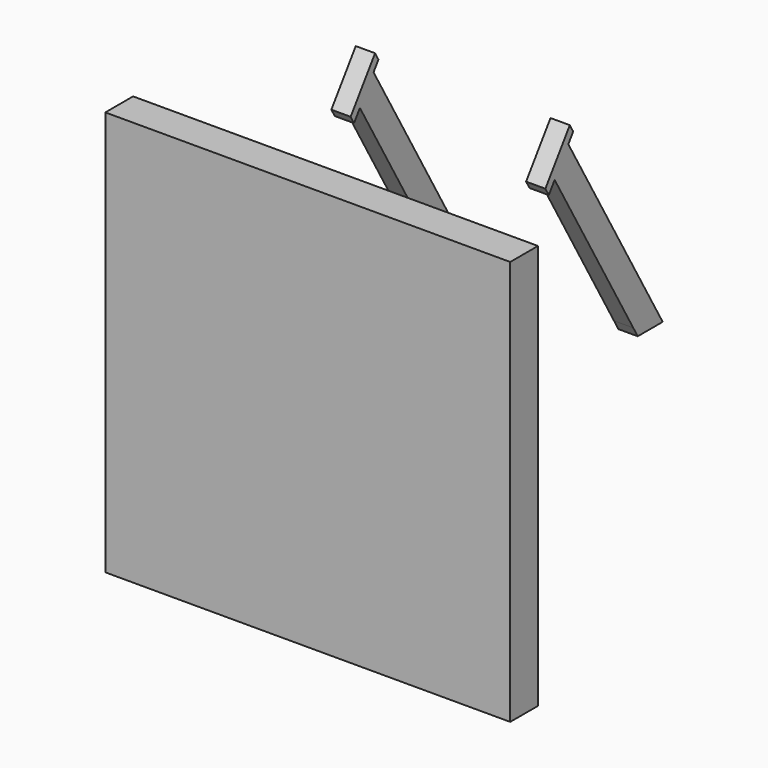
from build123d import *

# Parameters (mm, degrees)
F0_W     = 210
F0_H     = 210
F0_R     = 7.6
F1_DEPTH = 18
F2_DEPTH = 3.2
F4_START = 45.5
F4_DEPTH = 10


with BuildPart() as f1:
    # F0 (on Front) → F1 (new body)
    with BuildSketch(Plane.XZ):
        with Locations((-1.9567265748, 2.1569684295)):
            Rectangle(F0_W, F0_H)
        with Locations((-77.9567265748, -73.8430315705)):
            Circle(F0_R, mode=Mode.SUBTRACT)
        with Locations((-39.9567265748, -73.8430315705)):
            Circle(F0_R, mode=Mode.SUBTRACT)
        with Locations((-77.9567265748, -35.8430315705)):
            Circle(F0_R, mode=Mode.SUBTRACT)
        with Locations((-77.9567265748, 2.1569684295)):
            Circle(F0_R, mode=Mode.SUBTRACT)
        with Locations((-39.9567265748, -35.8430315705)):
            Circle(F0_R, mode=Mode.SUBTRACT)
        with Locations((-1.9567265748, -73.8430315705)):
            Circle(F0_R, mode=Mode.SUBTRACT)
        with Locations((36.0432734252, -73.8430315705)):
            Circle(F0_R, mode=Mode.SUBTRACT)
        with Locations((74.0432734252, -73.8430315705)):
            Circle(F0_R, mode=Mode.SUBTRACT)
        with Locations((-1.9567265748, -35.8430315705)):
            Circle(F0_R, mode=Mode.SUBTRACT)
        with Locations((36.0432734252, -35.8430315705)):
            Circle(F0_R, mode=Mode.SUBTRACT)
        with Locations((74.0432734252, -35.8430315705)):
            Circle(F0_R, mode=Mode.SUBTRACT)
        with Locations((-77.9567265748, 40.1569684295)):
            Circle(F0_R, mode=Mode.SUBTRACT)
        with Locations((-39.9567265748, 2.1569684295)):
            Circle(F0_R, mode=Mode.SUBTRACT)
        with Locations((-39.9567265748, 40.1569684295)):
            Circle(F0_R, mode=Mode.SUBTRACT)
        with Locations((-77.9567265748, 78.1569684295)):
            Circle(F0_R, mode=Mode.SUBTRACT)
        with Locations((-39.9567265748, 78.1569684295)):
            Circle(F0_R, mode=Mode.SUBTRACT)
        with Locations((-1.9567265748, 2.1569684295)):
            Circle(F0_R, mode=Mode.SUBTRACT)
        with Locations((36.0432734252, 2.1569684295)):
            Circle(F0_R, mode=Mode.SUBTRACT)
        with Locations((-1.9567265748, 40.1569684295)):
            Circle(F0_R, mode=Mode.SUBTRACT)
        with Locations((36.0432734252, 40.1569684295)):
            Circle(F0_R, mode=Mode.SUBTRACT)
        with Locations((74.0432734252, 2.1569684295)):
            Circle(F0_R, mode=Mode.SUBTRACT)
        with Locations((74.0432734252, 40.1569684295)):
            Circle(F0_R, mode=Mode.SUBTRACT)
        with Locations((-1.9567265748, 78.1569684295)):
            Circle(F0_R, mode=Mode.SUBTRACT)
        with Locations((36.0432734252, 78.1569684295)):
            Circle(F0_R, mode=Mode.SUBTRACT)
        with Locations((74.0432734252, 78.1569684295)):
            Circle(F0_R, mode=Mode.SUBTRACT)
        with Locations((-77.9567265748, 78.1569684295)):
            Circle(F0_R)
        with Locations((-77.9567265748, 40.1569684295)):
            Circle(F0_R)
        with Locations((-77.9567265748, 2.1569684295)):
            Circle(F0_R)
        with Locations((-77.9567265748, -35.8430315705)):
            Circle(F0_R)
        with Locations((-77.9567265748, -73.8430315705)):
            Circle(F0_R)
        with Locations((-39.9567265748, -73.8430315705)):
            Circle(F0_R)
        with Locations((-39.9567265748, -35.8430315705)):
            Circle(F0_R)
        with Locations((-39.9567265748, 2.1569684295)):
            Circle(F0_R)
        with Locations((-1.9567265748, 2.1569684295)):
            Circle(F0_R)
        with Locations((-1.9567265748, 40.1569684295)):
            Circle(F0_R)
        with Locations((-1.9567265748, 78.1569684295)):
            Circle(F0_R)
        with Locations((36.0432734252, 78.1569684295)):
            Circle(F0_R)
        with Locations((36.0432734252, 40.1569684295)):
            Circle(F0_R)
        with Locations((36.0432734252, 2.1569684295)):
            Circle(F0_R)
        with Locations((36.0432734252, -35.8430315705)):
            Circle(F0_R)
        with Locations((36.0432734252, -73.8430315705)):
            Circle(F0_R)
        with Locations((74.0432734252, -73.8430315705)):
            Circle(F0_R)
        with Locations((74.0432734252, -35.8430315705)):
            Circle(F0_R)
        with Locations((74.0432734252, 40.1569684295)):
            Circle(F0_R)
        with Locations((74.0432734252, 78.1569684295)):
            Circle(F0_R)
        with Locations((-39.9567265748, 78.1569684295)):
            Circle(F0_R)
        with Locations((-1.9567265748, -35.8430315705)):
            Circle(F0_R)
        with Locations((-1.9567265748, -73.8430315705)):
            Circle(F0_R)
        with Locations((74.0432734252, 2.1569684295)):
            Circle(F0_R)
        with Locations((-39.9567265748, 40.1569684295)):
            Circle(F0_R)
    extrude(amount=F1_DEPTH)

    # F0 (on Front) → F2 (cut)
    with BuildSketch(Plane.XZ):
        with Locations((74.0432734252, 78.1569684295)):
            Circle(F0_R)
        with Locations((36.0432734252, 78.1569684295)):
            Circle(F0_R)
        with Locations((36.0432734252, 40.1569684295)):
            Circle(F0_R)
        with Locations((74.0432734252, 40.1569684295)):
            Circle(F0_R)
        with Locations((74.0432734252, 2.1569684295)):
            Circle(F0_R)
        with Locations((74.0432734252, -35.8430315705)):
            Circle(F0_R)
        with Locations((36.0432734252, -35.8430315705)):
            Circle(F0_R)
        with Locations((36.0432734252, 2.1569684295)):
            Circle(F0_R)
        with Locations((74.0432734252, -73.8430315705)):
            Circle(F0_R)
        with Locations((36.0432734252, -73.8430315705)):
            Circle(F0_R)
        with Locations((-1.9567265748, -73.8430315705)):
            Circle(F0_R)
        with Locations((-1.9567265748, -35.8430315705)):
            Circle(F0_R)
        with Locations((-1.9567265748, 2.1569684295)):
            Circle(F0_R)
        with Locations((-1.9567265748, 40.1569684295)):
            Circle(F0_R)
        with Locations((-39.9567265748, 78.1569684295)):
            Circle(F0_R)
        with Locations((-1.9567265748, 78.1569684295)):
            Circle(F0_R)
        with Locations((-39.9567265748, 40.1569684295)):
            Circle(F0_R)
        with Locations((-39.9567265748, 2.1569684295)):
            Circle(F0_R)
        with Locations((-39.9567265748, -35.8430315705)):
            Circle(F0_R)
        with Locations((-39.9567265748, -73.8430315705)):
            Circle(F0_R)
        with Locations((-77.9567265748, -73.8430315705)):
            Circle(F0_R)
        with Locations((-77.9567265748, -35.8430315705)):
            Circle(F0_R)
        with Locations((-77.9567265748, 2.1569684295)):
            Circle(F0_R)
        with Locations((-77.9567265748, 40.1569684295)):
            Circle(F0_R)
        with Locations((-77.9567265748, 78.1569684295)):
            Circle(F0_R)
    extrude(amount=F2_DEPTH, mode=Mode.SUBTRACT)


with BuildPart() as f4:
    # F3 (on Right) → F4 (new body)
    with BuildSketch(Plane.YZ.offset(F4_START)):
        Polygon((80.0444721134, 114.3153532995), (64.2226827458, 91.719496351), (66.4294385837, 87.8972831198), (70.2266680319, 93.3202887875), (79.0868700778, 105.9739686787), (82.2512279514, 110.4931400684), align=None)
        Polygon((137.3842180756, 5), (121.2184105383, 5), (124.1051618842, 0), (140.2709694216, 0), align=None)
        Polygon((79.0868700778, 105.9739686787), (70.2266680319, 93.3202887875), (121.2184105383, 5), (137.3842180756, 5), align=None)
    extrude(amount=F4_DEPTH)


with BuildPart() as f5_1:
    # F5: instance of F4
    add(f4.part.mirror(Plane.YZ))


solid = Compound([f1.part, f4.part, f5_1.part])
